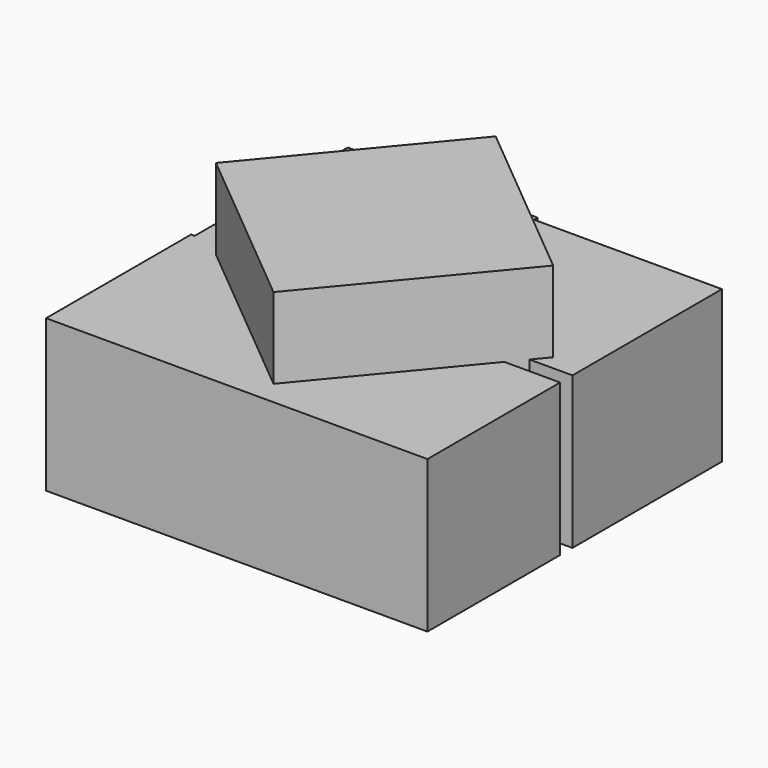
from build123d import *

# Parameters (mm, degrees)
F0_W     = 74.456050992
F0_H     = 65.7130181789
F0_H_2   = 74.0327015519
F1_DEPTH = 60.198
F3_DEPTH = 92.202


with BuildPart() as f1:
    # F0 (on Top) → F1 (new body)
    with BuildSketch(Plane.XY):
        with Locations((37.228025496, -38.9802902937)):
            Rectangle(F0_W, F0_H)
        with Locations((37.228025496, 37.016350776)):
            Rectangle(F0_W, F0_H_2)
        Polygon((-75.2415657043, 0), (0, 0), (0, 74.0327015519), (0, 75.8170485497), (-75.2415657043, 75.8170485497), align=None)
        Polygon((0, -6.1237812042), (0, 0), (-75.2415657043, 0), (-76.6809433699, 0), (-76.6809433699, -71.8367993832), (0, -71.8367993832), align=None)
    extrude(amount=F1_DEPTH)

    # F2 (on Top) → F3 (join)
    with BuildSketch(Plane.XY):
        Polygon((-5.7511497289, 62.2206833214), (-62.2206833214, -5.7511497289), (5.7511497289, -62.2206833214), (62.2206833214, 5.7511497289), align=None)
    extrude(amount=F3_DEPTH)


solid = f1.part
